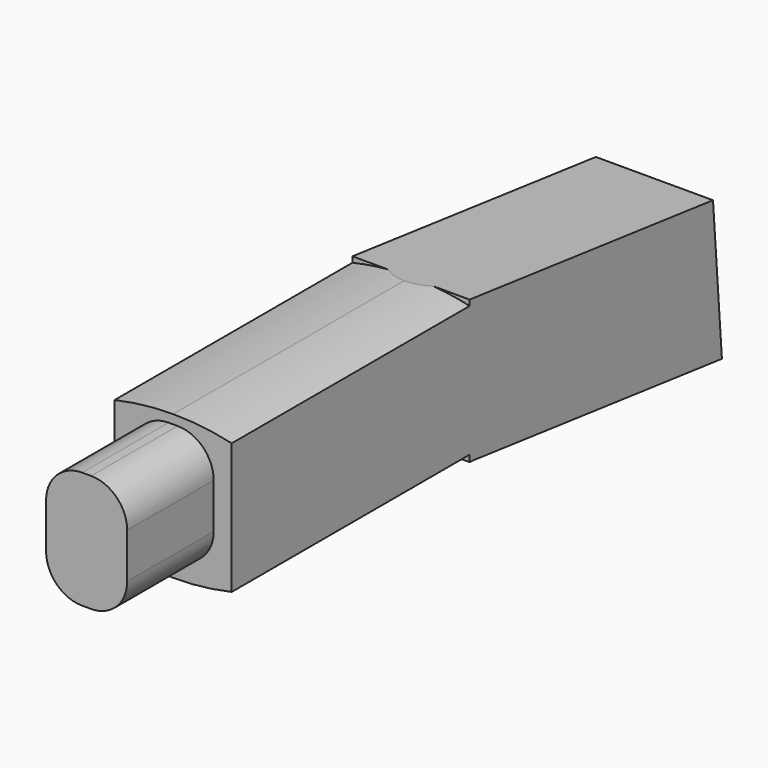
from build123d import *

# Parameters (mm, degrees)
F1_DEPTH = 6.5
F2_W     = 13
F2_H     = 16
F2_W_2   = 9
F2_H_2   = 13
F3_DEPTH = 12
F4_R     = 4
F6_DEPTH = 33


with BuildPart() as f1:
    # F0 (on Right) → F1 (new body, symmetric)
    with BuildSketch(Plane.YZ):
        Polygon((5.2879960276, 8), (-38.7622783519, 8), (-38.7622783519, -8), (6.5257176757, -8), (41.2377216481, -12.1299560964), (40, 3.8700439036), align=None)
    extrude(amount=F1_DEPTH, both=True)

    # F2 (on face) → F3 (cut)
    with BuildSketch(Plane.XZ.offset(38.7622783519)):
        Rectangle(F2_W, F2_H)
        with Locations((0, 0.5)):
            Rectangle(F2_W_2, F2_H_2, mode=Mode.SUBTRACT)
    extrude(amount=-F3_DEPTH, mode=Mode.SUBTRACT)

    # F4
    f4_edges = [f1.edges().sort_by_distance(p)[0] for p in [
        (4.5, -32.762278, 7),
        (-4.5, -32.762278, 7),
        (4.5, -32.762278, -6),
        (-4.5, -32.762278, -6),
    ]]
    fillet(f4_edges, radius=F4_R)

    # F5 (on face) → F6 (cut)
    with BuildSketch(Plane.XZ.offset(26.7622783519)):
        with BuildLine():
            ThreePointArc((0, 8), (3.2708714327, 7.8149509816), (6.5, 7.2621655221))
            Line((6.5, 7.2621655221), (6.5, 8))
            Line((6.5, 8), (0, 8))
        make_face()
        with BuildLine():
            ThreePointArc((-6.5, 7.2621655221), (-3.2708714327, 7.8149509816), (0, 8))
            Line((0, 8), (-6.5, 8))
            Line((-6.5, 8), (-6.5, 7.2621655221))
        make_face()
        with BuildLine():
            Line((6.5, -8), (6.5, -7.2621655221))
            ThreePointArc((6.5, -7.2621655221), (3.2708714327, -7.8149509816), (0, -8))
            Line((0, -8), (6.5, -8))
        make_face()
        with BuildLine():
            Line((-6.5, -8), (0, -8))
            ThreePointArc((0, -8), (-3.2708714327, -7.8149509816), (-6.5, -7.2621655221))
            Line((-6.5, -7.2621655221), (-6.5, -8))
        make_face()
    extrude(amount=-F6_DEPTH, mode=Mode.SUBTRACT)


solid = f1.part
